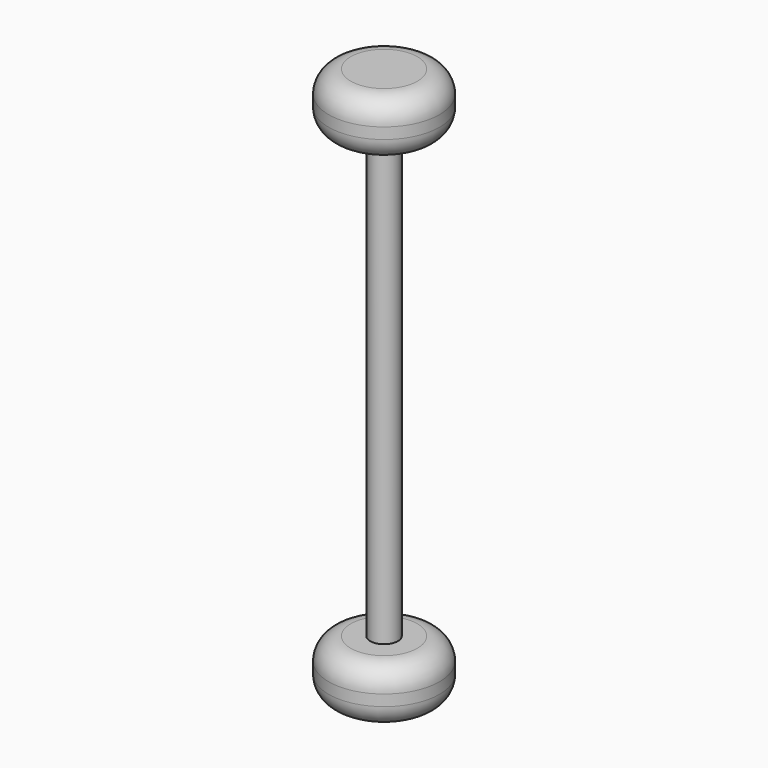
from build123d import *

# Parameters (mm, degrees)
F0_R     = 12.7
F1_DEPTH = 12.7
F2_R     = 3.175
F3_DEPTH = 101.6
F4_R     = 12.6988546774
F5_DEPTH = 12.7
F6_R     = 5.08


with BuildPart() as f1:
    # F0 (on Top) → F1 (new body)
    with BuildSketch(Plane.XY):
        Circle(F0_R)
    extrude(amount=F1_DEPTH)

    # F2 (on face) → F3 (join)
    with BuildSketch(Plane.XY.offset(12.7)):
        Circle(F2_R)
    extrude(amount=F3_DEPTH)

    # F4 (on face) → F5 (join)
    with BuildSketch(Plane.XY.offset(114.3)):
        Circle(F4_R)
    extrude(amount=F5_DEPTH)

    # F6
    f6_edges = [f1.edges().sort_by_distance(p)[0] for p in [
        (-12.7, 0, 12.7),
        (-12.7, 0, 0),
        (-12.698855, 0, 127),
        (-12.698855, 0, 114.3),
    ]]
    fillet(f6_edges, radius=F6_R)


with BuildPart() as f1_1:
    # F7: moved
    add(f1.part.moved(Location((0, 0, -52.324))))


solid = f1_1.part
